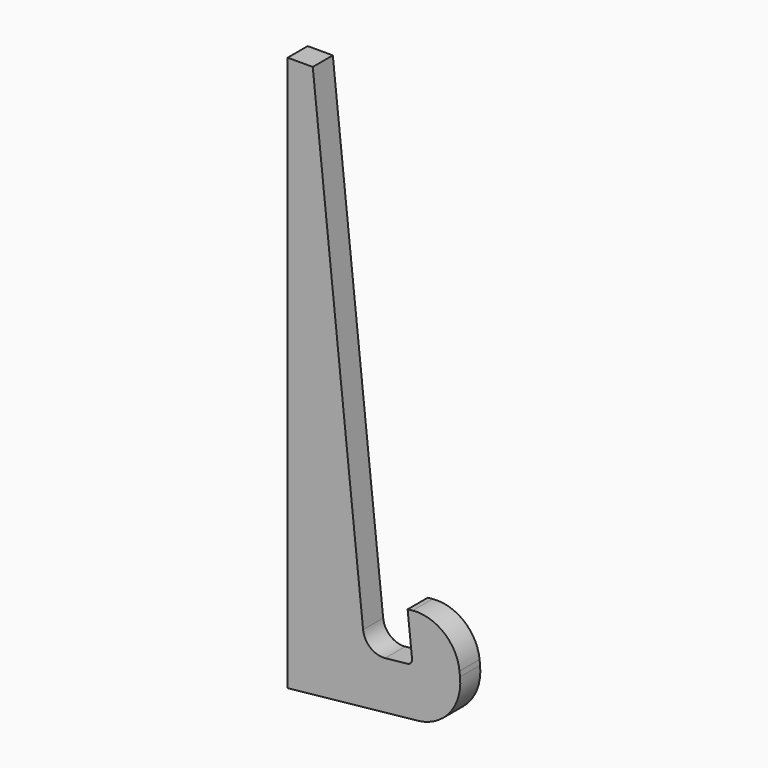
from build123d import *

# Parameters (mm, degrees)
F1_DEPTH = 5
F2_R     = 8.5
F3_R     = 4
F4_R     = 9.5
F5_R     = 1


with BuildPart() as f1:
    # F0 (on Front) → F1 (new body)
    with BuildSketch(Plane.XZ):
        Polygon((5, 110.628678), (0, 110.628678), (0, 0), (35.341783, 3.714571), (33.355742, 22.610487), (23.907784, 21.617467), (24.900804, 12.169509), (15.452846, 11.176488), align=None)
    extrude(amount=F1_DEPTH)

    # F2
    f2_edges = [f1.edges().sort_by_distance(p)[0] for p in [
        (33.355742, -2.5, 22.610487),
    ]]
    fillet(f2_edges, radius=F2_R)

    # F3
    f3_edges = [f1.edges().sort_by_distance(p)[0] for p in [
        (15.452846, -2.5, 11.176488),
    ]]
    fillet(f3_edges, radius=F3_R)

    # F4
    f4_edges = [f1.edges().sort_by_distance(p)[0] for p in [
        (35.341783, -2.5, 3.714571),
    ]]
    fillet(f4_edges, radius=F4_R)

    # F5
    f5_edges = [f1.edges().sort_by_distance(p)[0] for p in [
        (24.900804, -2.5, 12.169509),
    ]]
    fillet(f5_edges, radius=F5_R)


solid = f1.part
